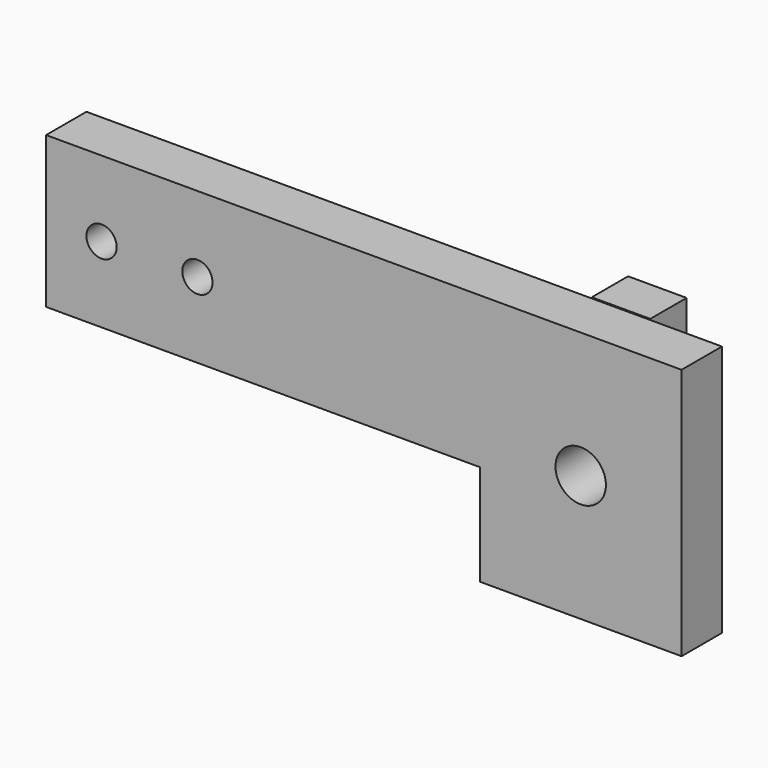
from build123d import *

# Parameters (mm, degrees)
F0_R     = 1.5
F0_R_2   = 2.5
F1_DEPTH = 5
F3_W     = 5.8
F3_H     = 5.2
F4_DEPTH = 4.5


with BuildPart() as f1:
    # F0 (on Front) → F1 (new body)
    with BuildSketch(Plane.XZ):
        Polygon((34.4082845706, -12.5), (34.4082845706, 12.5), (14.4082845706, 12.5), (-28.5917154294, 12.5), (-28.5917154294, -2.5), (14.4082845706, -2.5), (14.4082845706, -12.5), align=None)
        with Locations((-23.0917154294, 5)):
            Circle(F0_R, mode=Mode.SUBTRACT)
        with Locations((-13.5917154294, 5)):
            Circle(F0_R, mode=Mode.SUBTRACT)
        with Locations((24.4082845706, 0)):
            Circle(F0_R_2, mode=Mode.SUBTRACT)
    extrude(amount=F1_DEPTH)

    # F3 (on offset) → F4 (join)
    with BuildSketch(Plane(origin=(0, 0, 0), x_dir=(-1, 0, 0), z_dir=(0, 1, 0))):
        with Locations((-24.4082845706, 10.0041090116)):
            Rectangle(F3_W, F3_H)
        with Locations((-24.4082845706, -10.0041090116)):
            Rectangle(F3_W, F3_H)
    extrude(amount=F4_DEPTH)


solid = f1.part
